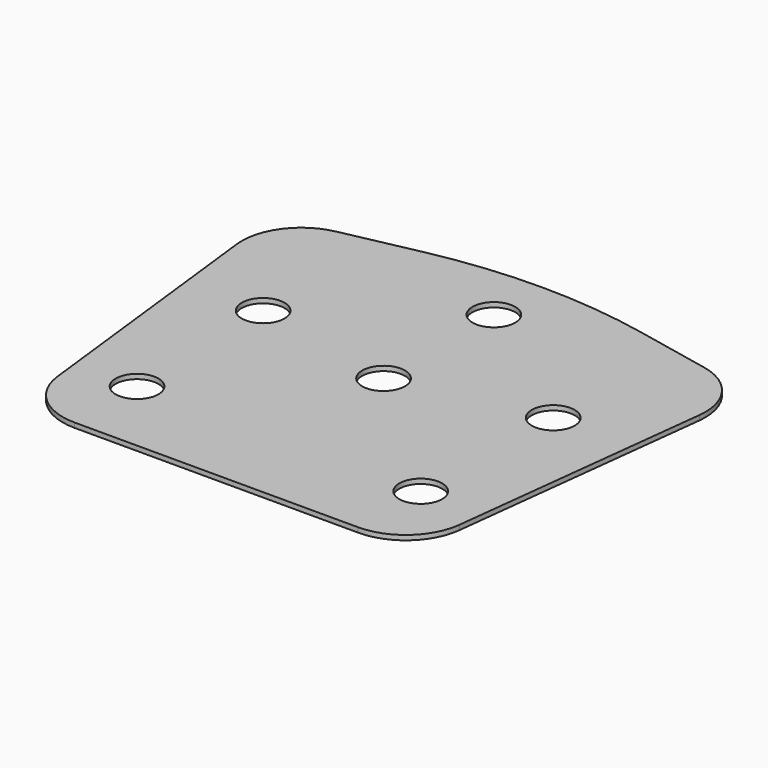
from build123d import *

# Parameters (mm, degrees)
F0_R     = 2.286
F1_DEPTH = 0.508


with BuildPart() as f1:
    # F0 (on Top) → F1 (new body)
    with BuildSketch(Plane.XY):
        with BuildLine():
            Line((-15.15687, 0), (0, 0))
            Line((0, 0), (15.15687, 0))
            ThreePointArc((15.15687, 0), (19.37977, 1.607678), (21.464382, 5.616657))
            Line((21.464382, 5.616657), (24.720645, 33.623904))
            ThreePointArc((24.720645, 33.623904), (23.562416, 38.073075), (19.70499, 40.574449))
            Line((19.70499, 40.574449), (11.626718, 42.253014))
            ThreePointArc((11.626718, 42.253014), (0, 43.448194), (-11.626718, 42.253014))
            Line((-11.626718, 42.253014), (-19.70499, 40.574449))
            ThreePointArc((-19.70499, 40.574449), (-23.562416, 38.073075), (-24.720645, 33.623904))
            Line((-24.720645, 33.623904), (-21.464382, 5.616657))
            ThreePointArc((-21.464382, 5.616657), (-19.37977, 1.607678), (-15.15687, 0))
        make_face()
        with Locations((-15.15687, 8.347787)):
            Circle(F0_R, mode=Mode.SUBTRACT)
        with Locations((15.15687, 8.347787)):
            Circle(F0_R, mode=Mode.SUBTRACT)
        with Locations((-15.498986, 25.619787)):
            Circle(F0_R, mode=Mode.SUBTRACT)
        with Locations((0, 22.334451)):
            Circle(F0_R, mode=Mode.SUBTRACT)
        with Locations((0, 37.066451)):
            Circle(F0_R, mode=Mode.SUBTRACT)
        with Locations((15.498986, 25.619787)):
            Circle(F0_R, mode=Mode.SUBTRACT)
    extrude(amount=F1_DEPTH)


solid = f1.part
